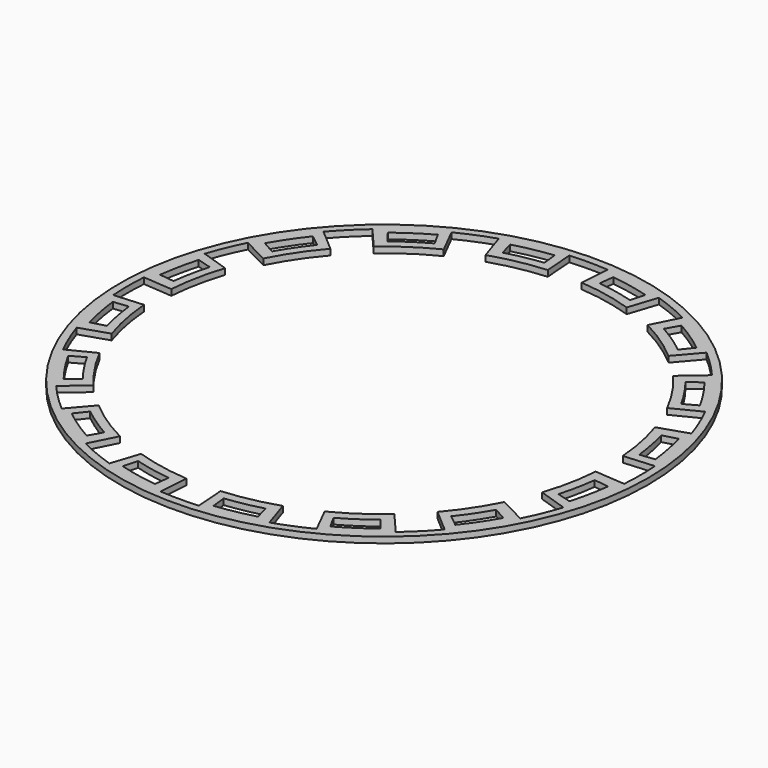
from build123d import *

# Parameters (mm, degrees)
SKETCH_R           = 44.3
SKETCH_R_2         = 38
PAD_DEPTH          = 1
POCKET_DEPTH       = 251.607624
POLARPATTERN_COUNT = 16


with BuildPart() as part:
    # Sketch → Pad (new body)
    with BuildSketch(Plane.XY):
        Circle(SKETCH_R)
        with Locations((-0.109724, 0)):
            Circle(SKETCH_R_2, mode=Mode.SUBTRACT)
    extrude(amount=PAD_DEPTH)

    # Sketch001 → Pocket (cut, through all)
    with BuildSketch(Plane.XY.offset(1)):
        with BuildLine():
            ThreePointArc((42.878892, -3.225), (43, 0), (42.878892, 3.225))
            Line((0, 0), (42.878892, 3.225))
            Line((0, 0), (42.878892, -3.225))
        make_face()
        with BuildLine():
            ThreePointArc((41.730018, 4.754535), (41.228342, 8.013978), (40.472479, 11.224012))
            Line((40.472479, 11.224012), (38.063403, 10.555916))
            ThreePointArc((39.246088, 4.471527), (38.774274, 7.536955), (38.063403, 10.555916))
            Line((41.730018, 4.754535), (39.246088, 4.471527))
        make_face()
    pocket = extrude(amount=-POCKET_DEPTH, mode=Mode.SUBTRACT)

    # PolarPattern: Pocket ×16 about axis
    polarpattern_axis = Axis((0, 0, 1), (0, 0, 1))
    for i in range(1, POLARPATTERN_COUNT):
        add(pocket.rotate(polarpattern_axis, i * 360 / POLARPATTERN_COUNT), mode=Mode.SUBTRACT)


solid = part.part
